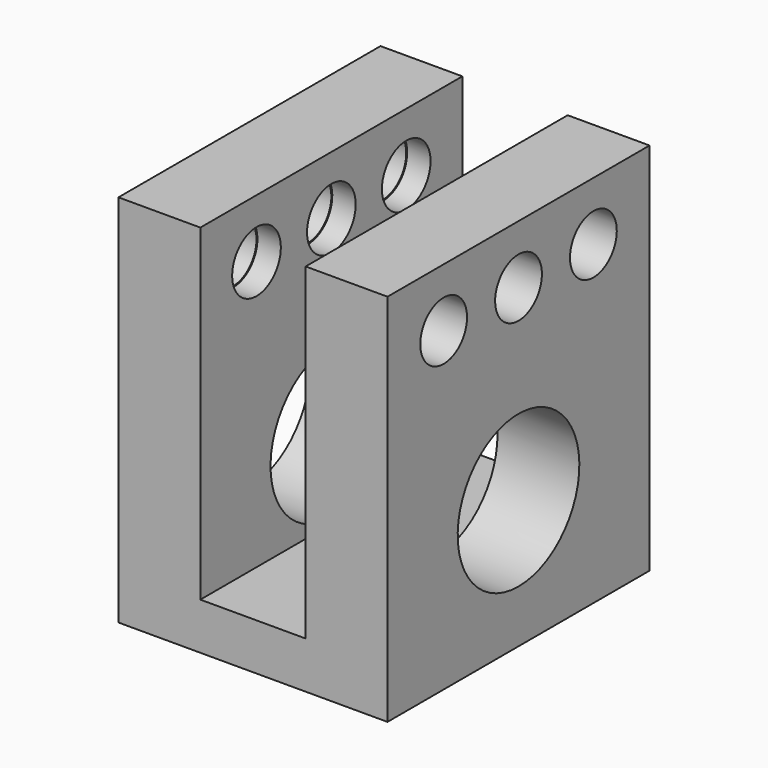
from build123d import *

# Parameters (mm, degrees)
CYLINDER112_R             = 2.6
CYLINDER112_DEPTH         = 2
CYLINDER113_R             = 2.5
CYLINDER113_DEPTH         = 5
FUSION048_PLACEMENT_ANGLE = 90
CYLINDER109_R             = 2.6
CYLINDER109_DEPTH         = 2
CYLINDER108_R             = 2.5
CYLINDER108_DEPTH         = 5
FUSION043_PLACEMENT_ANGLE = 90
CYLINDER107_R             = 2.6
CYLINDER107_DEPTH         = 2
CYLINDER106_R             = 2.5
CYLINDER106_DEPTH         = 5
FUSION042_PLACEMENT_ANGLE = 90
CYLINDER103_R             = 2.6
CYLINDER103_DEPTH         = 2
CYLINDER102_R             = 2.5
CYLINDER102_DEPTH         = 5
FUSION040_PLACEMENT_ANGLE = 90
CYLINDER101_R             = 2.6
CYLINDER101_DEPTH         = 2
CYLINDER100_R             = 2.5
CYLINDER100_DEPTH         = 5
FUSION039_PLACEMENT_ANGLE = 90
CYLINDER099_R             = 6.5
CYLINDER099_DEPTH         = 130
CYLINDER110_R             = 2.6
CYLINDER110_DEPTH         = 2
CYLINDER111_R             = 2.5
CYLINDER111_DEPTH         = 5
FUSION046_PLACEMENT_ANGLE = 90
BOX028_W                  = 23
BOX028_H                  = 28
BOX028_DEPTH              = 4
BOX029_W                  = 7
BOX029_H                  = 28
BOX029_DEPTH              = 32
BOX027_W                  = 7
BOX027_H                  = 28
BOX027_DEPTH              = 32


with BuildPart() as cilindro112:
    # Cylinder112 → Cylinder112 (new body)
    with BuildSketch(Plane.XY.offset(5)):
        Circle(CYLINDER112_R)
    extrude(amount=CYLINDER112_DEPTH)


with BuildPart() as obj1:
    # Cylinder113 → Cylinder113 (new body)
    with BuildSketch(Plane.XY):
        Circle(CYLINDER113_R)
    extrude(amount=CYLINDER113_DEPTH)

    # Fusion048: union Cilindro112
    add(cilindro112.part)


with BuildPart() as obj1_1:
    # Fusion048 placement: moved
    add(obj1.part.moved(Location((0, 0, 16))).rotate(Axis((0, 0, 16), (0, 1, 0)), FUSION048_PLACEMENT_ANGLE))


with BuildPart() as cilindro109:
    # Cylinder109 → Cylinder109 (new body)
    with BuildSketch(Plane.XY.offset(5)):
        Circle(CYLINDER109_R)
    extrude(amount=CYLINDER109_DEPTH)


with BuildPart() as obj2:
    # Cylinder108 → Cylinder108 (new body)
    with BuildSketch(Plane.XY):
        Circle(CYLINDER108_R)
    extrude(amount=CYLINDER108_DEPTH)

    # Fusion043: union Cilindro109
    add(cilindro109.part)


with BuildPart() as obj2_1:
    # Fusion043 placement: moved
    add(obj2.part.moved(Location((23, 8, 16))).rotate(Axis((23, 8, 16), (0, -1, 0)), FUSION043_PLACEMENT_ANGLE))


with BuildPart() as cilindro107:
    # Cylinder107 → Cylinder107 (new body)
    with BuildSketch(Plane.XY.offset(5)):
        Circle(CYLINDER107_R)
    extrude(amount=CYLINDER107_DEPTH)


with BuildPart() as obj3:
    # Cylinder106 → Cylinder106 (new body)
    with BuildSketch(Plane.XY):
        Circle(CYLINDER106_R)
    extrude(amount=CYLINDER106_DEPTH)

    # Fusion042: union Cilindro107
    add(cilindro107.part)


with BuildPart() as obj3_1:
    # Fusion042 placement: moved
    add(obj3.part.moved(Location((23, -8, 16))).rotate(Axis((23, -8, 16), (0, -1, 0)), FUSION042_PLACEMENT_ANGLE))


with BuildPart() as cilindro103:
    # Cylinder103 → Cylinder103 (new body)
    with BuildSketch(Plane.XY.offset(5)):
        Circle(CYLINDER103_R)
    extrude(amount=CYLINDER103_DEPTH)


with BuildPart() as obj4:
    # Cylinder102 → Cylinder102 (new body)
    with BuildSketch(Plane.XY):
        Circle(CYLINDER102_R)
    extrude(amount=CYLINDER102_DEPTH)

    # Fusion040: union Cilindro103
    add(cilindro103.part)


with BuildPart() as obj4_1:
    # Fusion040 placement: moved
    add(obj4.part.moved(Location((0, -8, 16))).rotate(Axis((0, -8, 16), (0, 1, 0)), FUSION040_PLACEMENT_ANGLE))


with BuildPart() as cilindro101:
    # Cylinder101 → Cylinder101 (new body)
    with BuildSketch(Plane.XY.offset(5)):
        Circle(CYLINDER101_R)
    extrude(amount=CYLINDER101_DEPTH)


with BuildPart() as obj5:
    # Cylinder100 → Cylinder100 (new body)
    with BuildSketch(Plane.XY):
        Circle(CYLINDER100_R)
    extrude(amount=CYLINDER100_DEPTH)

    # Fusion039: union Cilindro101
    add(cilindro101.part)


with BuildPart() as obj5_1:
    # Fusion039 placement: moved
    add(obj5.part.moved(Location((0, 8, 16))).rotate(Axis((0, 8, 16), (0, 1, 0)), FUSION039_PLACEMENT_ANGLE))


with BuildPart() as cilindro099:
    # Cylinder099 → Cylinder099 (new body)
    with BuildSketch(Plane(origin=(-2, 0, 0), x_dir=(0, 0, -1), z_dir=(1, 0, 0))):
        Circle(CYLINDER099_R)
    extrude(amount=CYLINDER099_DEPTH)


with BuildPart() as cilindro110:
    # Cylinder110 → Cylinder110 (new body)
    with BuildSketch(Plane.XY.offset(5)):
        Circle(CYLINDER110_R)
    extrude(amount=CYLINDER110_DEPTH)


with BuildPart() as fusion047:
    # Cylinder111 → Cylinder111 (new body)
    with BuildSketch(Plane.XY):
        Circle(CYLINDER111_R)
    extrude(amount=CYLINDER111_DEPTH)

    # Fusion046: union Cilindro110
    add(cilindro110.part)


with BuildPart() as fusion047_1:
    # Fusion046 placement: moved
    add(fusion047.part.moved(Location((23, 0, 16))).rotate(Axis((23, 0, 16), (0, -1, 0)), FUSION046_PLACEMENT_ANGLE))

    # Fusion047: union obj2, obj3, obj4, obj5, Cilindro099
    add(obj2_1.part)
    add(obj3_1.part)
    add(obj4_1.part)
    add(obj5_1.part)
    add(cilindro099.part)


with BuildPart() as cubo025:
    # Box028 → Box028 (new body)
    with BuildSketch(Plane(origin=(0, -14, -11), x_dir=(1, 0, 0), z_dir=(0, 0, 1))):
        with Locations((11.5, 14)):
            Rectangle(BOX028_W, BOX028_H)
    extrude(amount=BOX028_DEPTH)


with BuildPart() as cubo026:
    # Box029 → Box029 (new body)
    with BuildSketch(Plane(origin=(16, -14, -11), x_dir=(1, 0, 0), z_dir=(0, 0, 1))):
        with Locations((3.5, 14)):
            Rectangle(BOX029_W, BOX029_H)
    extrude(amount=BOX029_DEPTH)


with BuildPart() as obj6:
    # Box027 → Box027 (new body)
    with BuildSketch(Plane(origin=(0, -14, -11), x_dir=(1, 0, 0), z_dir=(0, 0, 1))):
        with Locations((3.5, 14)):
            Rectangle(BOX027_W, BOX027_H)
    extrude(amount=BOX027_DEPTH)

    # Fusion045: union Cubo025, Cubo026
    add(cubo025.part)
    add(cubo026.part)

    # Cut054: cut Fusion047
    add(fusion047_1.part, mode=Mode.SUBTRACT)

    # Cut055: cut obj1
    add(obj1_1.part, mode=Mode.SUBTRACT)


solid = obj6.part
